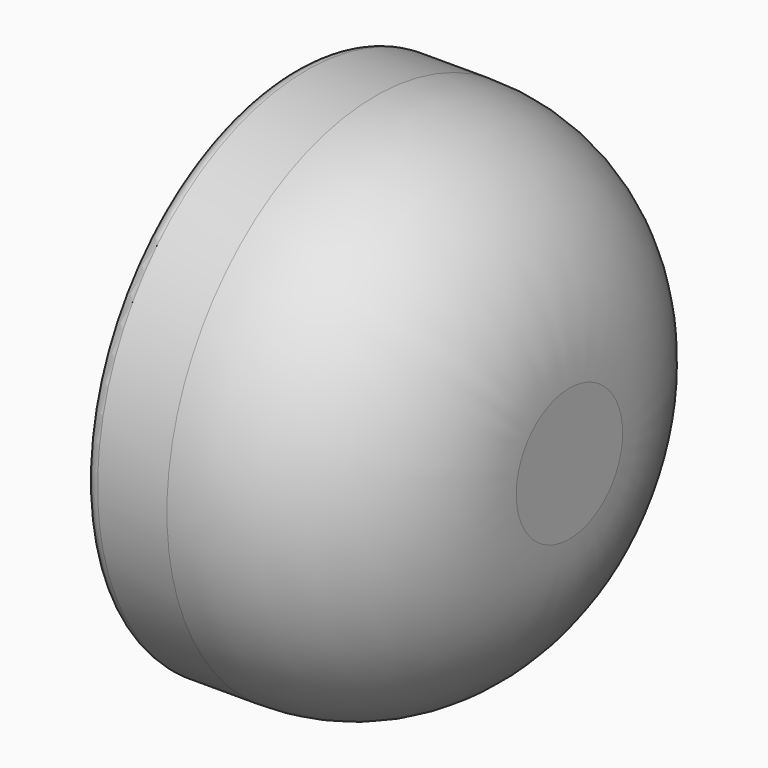
from build123d import *

# Parameters (mm, degrees)
F0_R     = 23.8741589036
F1_DEPTH = 25.4
F2_R     = 17.78
F4_D     = 6.35
F4_DEPTH = 6.35
F4_TIP   = 1.9077324654
F5_R     = 1.27


with BuildPart() as f1:
    # F0 (on Right) → F1 (new body)
    with BuildSketch(Plane.YZ):
        with Locations((0, 17.5948925316)):
            Circle(F0_R)
    extrude(amount=-F1_DEPTH)

    # F2
    f2_edges = [f1.edges().sort_by_distance(p)[0] for p in [
        (0, -23.874159, 17.594893),
    ]]
    fillet(f2_edges, radius=F2_R)

    # F4
    with Locations(Plane(origin=(-25.4, 0, 0), x_dir=(0, -1, 0), z_dir=(-1, 0, 0))):
        with Locations((0, 17.5948925316)):
            Hole(F4_D / 2, depth=F4_DEPTH)
            with Locations((0, 0, -(F4_DEPTH + F4_TIP / 2))):  # 118° drill point
                Cone(0, F4_D / 2, F4_TIP, mode=Mode.SUBTRACT)

    # F5
    f5_edges = [f1.edges().sort_by_distance(p)[0] for p in [
        (-25.4, -23.874159, 17.594893),
    ]]
    fillet(f5_edges, radius=F5_R)


solid = f1.part
